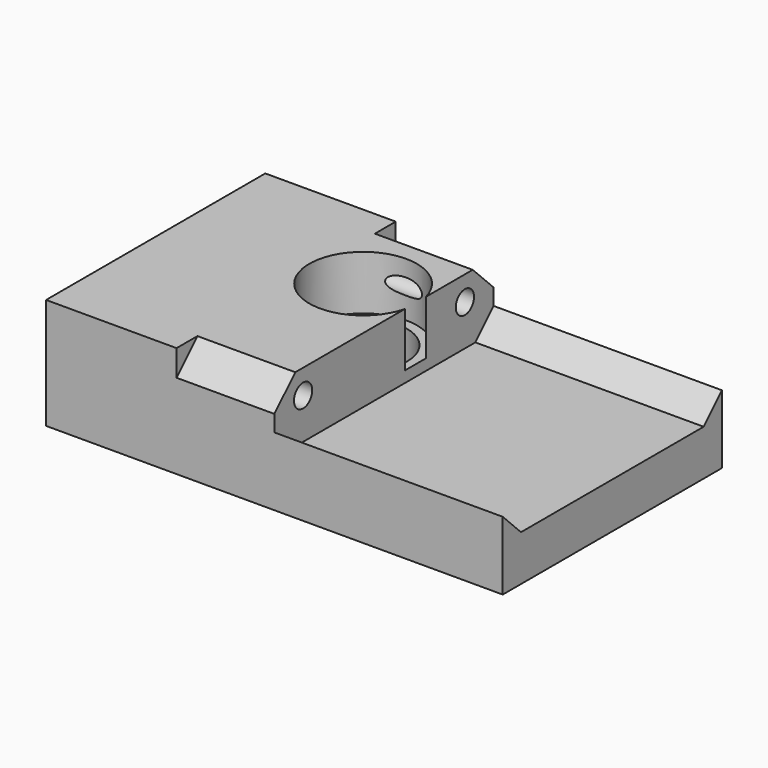
from build123d import *

# Parameters (mm, degrees)
BOX_W           = 70
BOX_H           = 42
BOX_DEPTH       = 17
SKETCH_R        = 1.75
POCKET_DEPTH    = 70.001
POCKET001_DEPTH = 50
POCKET002_DEPTH = 35
SKETCH003_R     = 6.75
POCKET003_DEPTH = 17.001
SKETCH004_R     = 8.25
POCKET004_DEPTH = 8.3
SKETCH005_R     = 8.25
POCKET005_DEPTH = 4.2


with BuildPart() as part:
    # Box → Box (new body)
    with BuildSketch(Plane.XY):
        with Locations((35, 21)):
            Rectangle(BOX_W, BOX_H)
    extrude(amount=BOX_DEPTH)

    # Sketch (on Face2 of BaseFeature) → Pocket (cut, through all)
    with BuildSketch(Plane.YZ.offset(70)):
        with Locations((5.5, 13.25)):
            Circle(SKETCH_R)
        with Locations((36.5, 13.25)):
            Circle(SKETCH_R)
    extrude(amount=-POCKET_DEPTH, mode=Mode.SUBTRACT)

    # Sketch001 (on Face2 of BaseFeature) → Pocket001 (cut)
    with BuildSketch(Plane.YZ.offset(70)):
        Polygon((4, 17), (0, 17), (0, 13), align=None)
        Polygon((38, 17), (42, 17), (42, 13), align=None)
    extrude(amount=-POCKET001_DEPTH, mode=Mode.SUBTRACT)

    # Sketch002 (on Face8 of Pocket001) → Pocket002 (cut)
    with BuildSketch(Plane.YZ.offset(70)):
        Polygon((4, 17), (0, 13), (0, 10.5), (3.5, 7), (38.5, 7), (42, 10.5), (42, 13), (38, 17), align=None)
    extrude(amount=-POCKET002_DEPTH, mode=Mode.SUBTRACT)

    # Sketch003 (on Face3 of Pocket002) → Pocket003 (cut, through all)
    with BuildSketch(Plane.XY.offset(17)):
        with Locations((27, 27)):
            Circle(SKETCH003_R)
    extrude(amount=-POCKET003_DEPTH, mode=Mode.SUBTRACT)

    # Sketch004 (on Face3 of Pocket003) → Pocket004 (cut)
    with BuildSketch(Plane.XY.offset(17)):
        with Locations((27, 27)):
            Circle(SKETCH004_R)
    extrude(amount=-POCKET004_DEPTH, mode=Mode.SUBTRACT)

    # Sketch005 (on Face4 of Pocket004) → Pocket005 (cut)
    with BuildSketch(Plane(origin=(0, 0, 0), x_dir=(1, 0, 0), z_dir=(0, 0, -1))):
        with Locations((27, -27)):
            Circle(SKETCH005_R)
    extrude(amount=-POCKET005_DEPTH, mode=Mode.SUBTRACT)


solid = part.part
